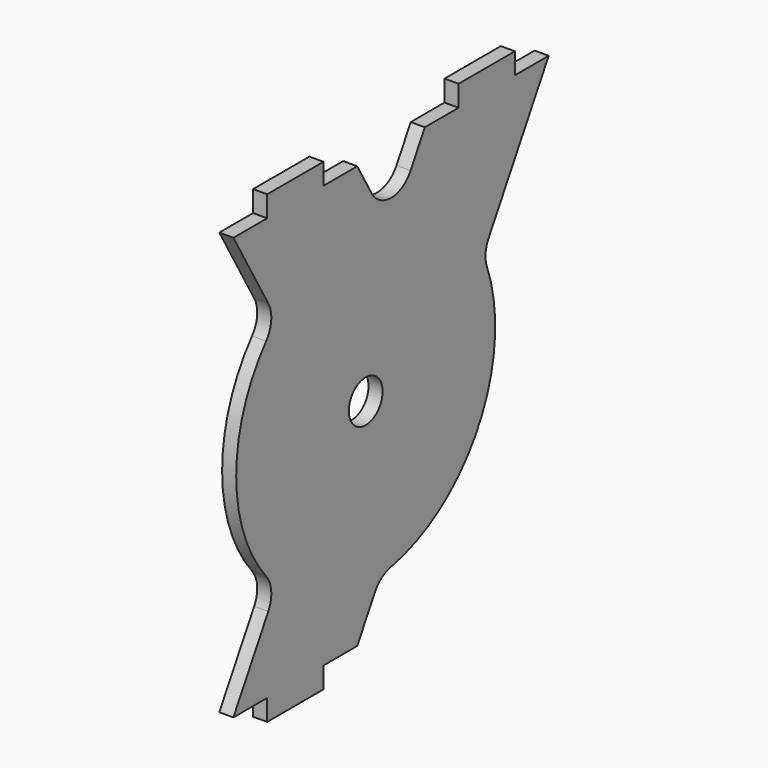
from build123d import *

# Parameters (mm, degrees)
F0_R     = 1.5
F1_DEPTH = 1
F2_R     = 2


with BuildPart() as f1:
    # F0 (on Right) → F1 (new body)
    with BuildSketch(Plane.YZ):
        with BuildLine():
            Line((-12.25, 15), (-15.25, 15))
            Line((-15.25, 15), (-11.409494, 8.348048))
            ThreePointArc((-11.409494, 8.348048), (-15, 0), (-11.409494, -8.348048))
            Line((-11.409494, -8.348048), (-15.25, -15))
            Line((-15.25, -15), (-12.25, -15))
            Line((-12.25, -15), (-12.25, -16.5))
            Line((-12.25, -16.5), (-7.25, -16.5))
            Line((-7.25, -16.5), (-7.25, -15))
            Line((-7.25, -15), (-4.25, -15))
            Line((-4.25, -15), (-2.185775, -11.424658))
            ThreePointArc((-2.185775, -11.424658), (6.543653, -5.601343), (6.910541, 4.88576))
            Line((6.910541, 4.88576), (12.75, 15))
            Line((12.75, 15), (9.75, 15))
            Line((9.75, 15), (9.75, 16.5))
            Line((9.75, 16.5), (4.75, 16.5))
            Line((4.75, 16.5), (4.75, 15))
            Line((4.75, 15), (1.75, 15))
            Line((1.75, 15), (0.482051, 12.803848))
            ThreePointArc((0.482051, 12.803848), (-1.25, 11.803848), (-2.982051, 12.803848))
            Line((-2.982051, 12.803848), (-4.25, 15))
            Line((-4.25, 15), (-7.25, 15))
            Line((-7.25, 15), (-7.25, 16.5))
            Line((-7.25, 16.5), (-12.25, 16.5))
            Line((-12.25, 16.5), (-12.25, 15))
        make_face()
        with Locations((-3.5, 0)):
            Circle(F0_R, mode=Mode.SUBTRACT)
    extrude(amount=F1_DEPTH)

    # F2
    f2_edges = [f1.edges().sort_by_distance(p)[0] for p in [
        (0.5, -11.409494, 8.348048),
        (0.5, -11.409494, -8.348048),
        (0.5, -2.185775, -11.424658),
        (0.5, 6.910541, 4.88576),
    ]]
    fillet(f2_edges, radius=F2_R)


solid = f1.part
